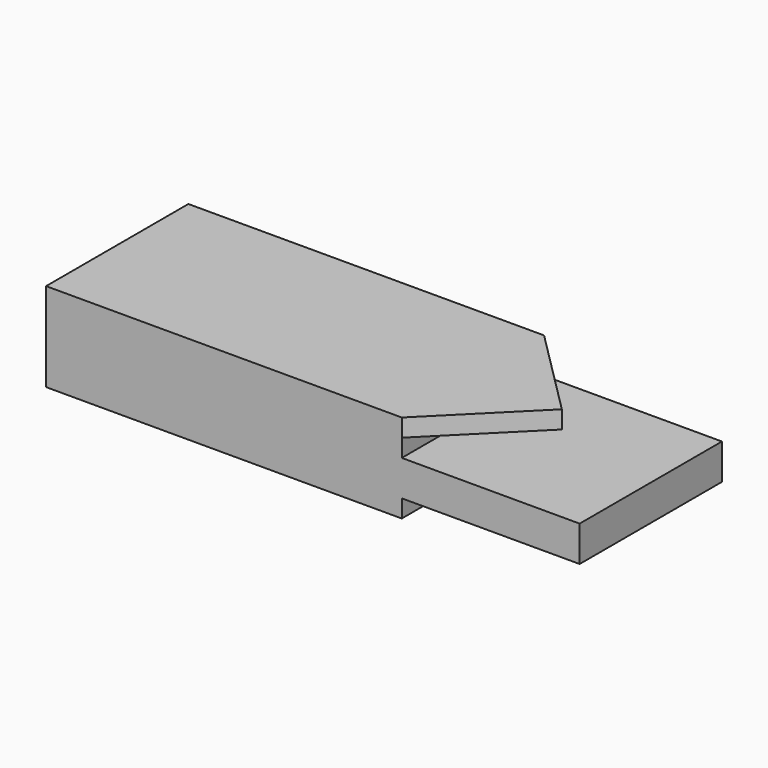
from build123d import *

# Parameters (mm, degrees)
BOX001_W               = 70.7107
BOX001_H               = 70.7107
BOX001_DEPTH           = 10
BOX001_PLACEMENT_ANGLE = 315
BOX002_W               = 100
BOX002_H               = 100
BOX002_DEPTH           = 20
BOX_W                  = 200
BOX_H                  = 100
BOX_DEPTH              = 50


with BuildPart() as cube001:
    # Box001 → Box001 (new body)
    with BuildSketch(Plane.XY):
        with Locations((35.35535, 35.35535)):
            Rectangle(BOX001_W, BOX001_H)
    extrude(amount=BOX001_DEPTH)


with BuildPart() as cube001_1:
    # Box001 placement: moved
    add(cube001.part.moved(Location((-50, 0, 40))).rotate(Axis((-50, 0, 40), (0, 0, 1)), BOX001_PLACEMENT_ANGLE))


with BuildPart() as cube002:
    # Box002 → Box002 (new body)
    with BuildSketch(Plane(origin=(0, -50, 10), x_dir=(1, 0, 0), z_dir=(0, 0, 1))):
        with Locations((50, 50)):
            Rectangle(BOX002_W, BOX002_H)
    extrude(amount=BOX002_DEPTH)


with BuildPart() as fusion:
    # Box → Box (new body)
    with BuildSketch(Plane(origin=(0, 50, 0), x_dir=(-1, 0, 0), z_dir=(0, 0, 1))):
        with Locations((100, 50)):
            Rectangle(BOX_W, BOX_H)
    extrude(amount=BOX_DEPTH)

    # Fusion: union Cube001, Cube002
    add(cube001_1.part)
    add(cube002.part)


solid = fusion.part
